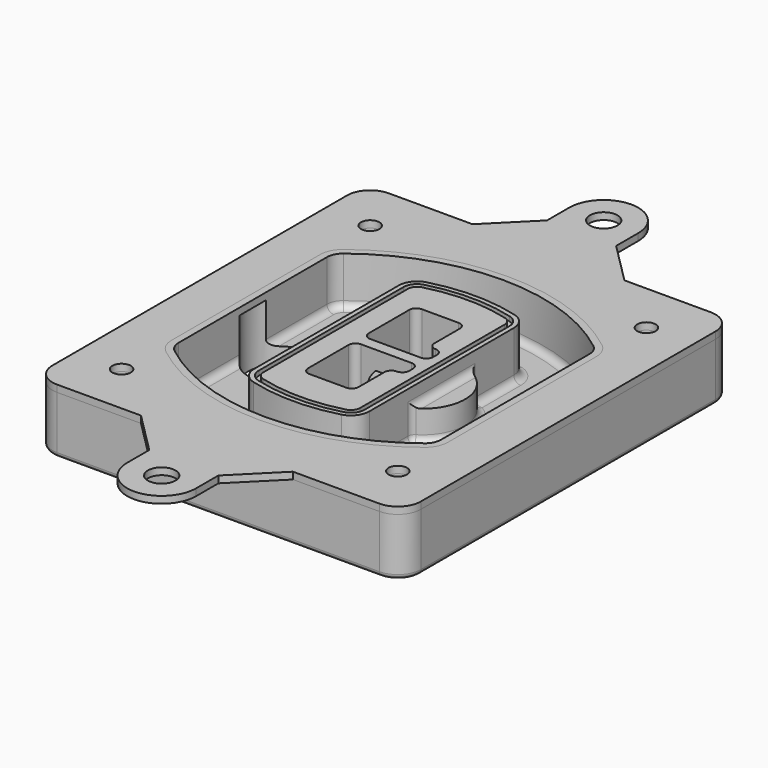
from build123d import *

# Parameters (mm, degrees)
F0_R      = 4
F1_DEPTH  = 25
F2_DEPTH  = 3
F3_DEPTH  = 18
F5_DEPTH  = 21
F6_DEPTH  = 2
F8_DEPTH  = 20
F9_DEPTH  = 16
F10_DEPTH = 25
F7_R      = 6
F7_R_2    = 4
F11_DEPTH = 6
F13_DEPTH = 9
F14_R     = 3
F15_R     = 2
F16_R     = 6
F16_R_2   = 4
F17_DEPTH = 3


with BuildPart() as f1:
    # F0 (on Top) → F1 (new body)
    with BuildSketch(Plane.XY):
        with BuildLine():
            ThreePointArc((-80, -80), (-77.0710678119, -87.0710678119), (-70, -90))
            Line((-70, -90), (70, -90))
            ThreePointArc((70, -90), (77.0710678119, -87.0710678119), (80, -80))
            Line((80, -80), (80, 80))
            ThreePointArc((80, 80), (77.0710678119, 87.0710678119), (70, 90))
            Line((70, 90), (-70, 90))
            ThreePointArc((-70, 90), (-77.0710678119, 87.0710678119), (-80, 80))
            Line((-80, 80), (-80, -80))
        make_face()
        with Locations((-60, -67.5)):
            Circle(F0_R, mode=Mode.SUBTRACT)
        with Locations((60, -67.5)):
            Circle(F0_R, mode=Mode.SUBTRACT)
        with Locations((-60, 67.5)):
            Circle(F0_R, mode=Mode.SUBTRACT)
        with BuildLine():
            ThreePointArc((-64, 40.2934422872), (-62.5820384798, 46.4328484224), (-58.6153846154, 51.3286200352))
            ThreePointArc((-58.6153846154, 51.3286200352), (0, 71.5), (58.6153846154, 51.3286200352))
            ThreePointArc((58.6153846154, 51.3286200352), (62.5820384798, 46.4328484224), (64, 40.2934422872))
            Line((64, 40.2934422872), (64, -40.2934422872))
            ThreePointArc((64, -40.2934422872), (62.5820384798, -46.4328484224), (58.6153846154, -51.3286200352))
            ThreePointArc((58.6153846154, -51.3286200352), (0, -71.5), (-58.6153846154, -51.3286200352))
            ThreePointArc((-58.6153846154, -51.3286200352), (-62.5820384798, -46.4328484224), (-64, -40.2934422872))
            Line((-64, -40.2934422872), (-64, 40.2934422872))
        make_face(mode=Mode.SUBTRACT)
        with Locations((60, 67.5)):
            Circle(F0_R, mode=Mode.SUBTRACT)
        with BuildLine():
            ThreePointArc((58.6153846154, 51.3286200352), (0, 71.5), (-58.6153846154, 51.3286200352))
            ThreePointArc((-58.6153846154, 51.3286200352), (-62.5820384798, 46.4328484224), (-64, 40.2934422872))
            Line((-64, 40.2934422872), (-64, -40.2934422872))
            ThreePointArc((-64, -40.2934422872), (-62.5820384798, -46.4328484224), (-58.6153846154, -51.3286200352))
            ThreePointArc((-58.6153846154, -51.3286200352), (0, -71.5), (58.6153846154, -51.3286200352))
            ThreePointArc((58.6153846154, -51.3286200352), (62.5820384798, -46.4328484224), (64, -40.2934422872))
            Line((64, -40.2934422872), (64, 40.2934422872))
            ThreePointArc((64, 40.2934422872), (62.5820384798, 46.4328484224), (58.6153846154, 51.3286200352))
        make_face()
        with BuildLine():
            Line((-60, -40.2934422872), (-60, 40.2934422872))
            ThreePointArc((-60, 40.2934422872), (-58.9871703427, 44.6787323838), (-56.1538461538, 48.1757121072))
            ThreePointArc((-56.1538461538, 48.1757121072), (0, 67.5), (56.1538461538, 48.1757121072))
            ThreePointArc((56.1538461538, 48.1757121072), (58.9871703427, 44.6787323838), (60, 40.2934422872))
            Line((60, 40.2934422872), (60, -40.2934422872))
            ThreePointArc((60, -40.2934422872), (58.9871703427, -44.6787323838), (56.1538461538, -48.1757121072))
            ThreePointArc((56.1538461538, -48.1757121072), (0, -67.5), (-56.1538461538, -48.1757121072))
            ThreePointArc((-56.1538461538, -48.1757121072), (-58.9871703427, -44.6787323838), (-60, -40.2934422872))
        make_face(mode=Mode.SUBTRACT)
        with BuildLine():
            ThreePointArc((-56.1538461538, 48.1757121072), (-58.9871703427, 44.6787323838), (-60, 40.2934422872))
            Line((-60, 40.2934422872), (-60, -40.2934422872))
            ThreePointArc((-60, -40.2934422872), (-58.9871703427, -44.6787323838), (-56.1538461538, -48.1757121072))
            ThreePointArc((-56.1538461538, -48.1757121072), (0, -67.5), (56.1538461538, -48.1757121072))
            ThreePointArc((56.1538461538, -48.1757121072), (58.9871703427, -44.6787323838), (60, -40.2934422872))
            Line((60, -40.2934422872), (60, 40.2934422872))
            ThreePointArc((60, 40.2934422872), (58.9871703427, 44.6787323838), (56.1538461538, 48.1757121072))
            ThreePointArc((56.1538461538, 48.1757121072), (0, 67.5), (-56.1538461538, 48.1757121072))
        make_face()
        with BuildLine():
            ThreePointArc((54.3076923077, 45.8110311612), (56.2910192399, 43.3631453548), (57, 40.2934422872))
            Line((57, 40.2934422872), (57, -40.2934422872))
            ThreePointArc((57, -40.2934422872), (56.2910192399, -43.3631453548), (54.3076923077, -45.8110311612))
            ThreePointArc((54.3076923077, -45.8110311612), (0, -64.5), (-54.3076923077, -45.8110311612))
            ThreePointArc((-54.3076923077, -45.8110311612), (-56.2910192399, -43.3631453548), (-57, -40.2934422872))
            Line((-57, -40.2934422872), (-57, 40.2934422872))
            ThreePointArc((-57, 40.2934422872), (-56.2910192399, 43.3631453548), (-54.3076923077, 45.8110311612))
            ThreePointArc((-54.3076923077, 45.8110311612), (0, 64.5), (54.3076923077, 45.8110311612))
        make_face(mode=Mode.SUBTRACT)
        with BuildLine():
            Line((57, -40.2934422872), (57, 40.2934422872))
            ThreePointArc((57, 40.2934422872), (56.2910192399, 43.3631453548), (54.3076923077, 45.8110311612))
            ThreePointArc((54.3076923077, 45.8110311612), (0, 64.5), (-54.3076923077, 45.8110311612))
            ThreePointArc((-54.3076923077, 45.8110311612), (-56.2910192399, 43.3631453548), (-57, 40.2934422872))
            Line((-57, 40.2934422872), (-57, -40.2934422872))
            ThreePointArc((-57, -40.2934422872), (-56.2910192399, -43.3631453548), (-54.3076923077, -45.8110311612))
            ThreePointArc((-54.3076923077, -45.8110311612), (0, -64.5), (54.3076923077, -45.8110311612))
            ThreePointArc((54.3076923077, -45.8110311612), (56.2910192399, -43.3631453548), (57, -40.2934422872))
        make_face()
    extrude(amount=-F1_DEPTH)

    # F0 (on Top) → F2 (join)
    with BuildSketch(Plane.XY):
        with BuildLine():
            ThreePointArc((-56.1538461538, 48.1757121072), (-58.9871703427, 44.6787323838), (-60, 40.2934422872))
            Line((-60, 40.2934422872), (-60, -40.2934422872))
            ThreePointArc((-60, -40.2934422872), (-58.9871703427, -44.6787323838), (-56.1538461538, -48.1757121072))
            ThreePointArc((-56.1538461538, -48.1757121072), (0, -67.5), (56.1538461538, -48.1757121072))
            ThreePointArc((56.1538461538, -48.1757121072), (58.9871703427, -44.6787323838), (60, -40.2934422872))
            Line((60, -40.2934422872), (60, 40.2934422872))
            ThreePointArc((60, 40.2934422872), (58.9871703427, 44.6787323838), (56.1538461538, 48.1757121072))
            ThreePointArc((56.1538461538, 48.1757121072), (0, 67.5), (-56.1538461538, 48.1757121072))
        make_face()
        with BuildLine():
            ThreePointArc((54.3076923077, 45.8110311612), (56.2910192399, 43.3631453548), (57, 40.2934422872))
            Line((57, 40.2934422872), (57, -40.2934422872))
            ThreePointArc((57, -40.2934422872), (56.2910192399, -43.3631453548), (54.3076923077, -45.8110311612))
            ThreePointArc((54.3076923077, -45.8110311612), (0, -64.5), (-54.3076923077, -45.8110311612))
            ThreePointArc((-54.3076923077, -45.8110311612), (-56.2910192399, -43.3631453548), (-57, -40.2934422872))
            Line((-57, -40.2934422872), (-57, 40.2934422872))
            ThreePointArc((-57, 40.2934422872), (-56.2910192399, 43.3631453548), (-54.3076923077, 45.8110311612))
            ThreePointArc((-54.3076923077, 45.8110311612), (0, 64.5), (54.3076923077, 45.8110311612))
        make_face(mode=Mode.SUBTRACT)
    extrude(amount=F2_DEPTH)

    # F0 (on Top) → F3 (cut)
    with BuildSketch(Plane.XY):
        with BuildLine():
            Line((57, -40.2934422872), (57, 40.2934422872))
            ThreePointArc((57, 40.2934422872), (56.2910192399, 43.3631453548), (54.3076923077, 45.8110311612))
            ThreePointArc((54.3076923077, 45.8110311612), (0, 64.5), (-54.3076923077, 45.8110311612))
            ThreePointArc((-54.3076923077, 45.8110311612), (-56.2910192399, 43.3631453548), (-57, 40.2934422872))
            Line((-57, 40.2934422872), (-57, -40.2934422872))
            ThreePointArc((-57, -40.2934422872), (-56.2910192399, -43.3631453548), (-54.3076923077, -45.8110311612))
            ThreePointArc((-54.3076923077, -45.8110311612), (0, -64.5), (54.3076923077, -45.8110311612))
            ThreePointArc((54.3076923077, -45.8110311612), (56.2910192399, -43.3631453548), (57, -40.2934422872))
        make_face()
    extrude(amount=-F3_DEPTH, mode=Mode.SUBTRACT)

    # F4 (on face) → F5 (join, through all)
    with BuildSketch(Plane.XY.offset(3)):
        with BuildLine():
            ThreePointArc((-25, -39.2465276821), (-23.3511545998, -44.1109737193), (-19.0842911877, -46.9702398883))
            ThreePointArc((-19.0842911877, -46.9702398883), (0, -49.5), (19.0842911877, -46.9702398883))
            ThreePointArc((19.0842911877, -46.9702398883), (23.3511545998, -44.1109737193), (25, -39.2465276821))
            Line((25, -39.2465276821), (25, 39.2465276821))
            ThreePointArc((25, 39.2465276821), (23.3511545998, 44.1109737193), (19.0842911877, 46.9702398883))
            ThreePointArc((19.0842911877, 46.9702398883), (0, 49.5), (-19.0842911877, 46.9702398883))
            ThreePointArc((-19.0842911877, 46.9702398883), (-23.3511545998, 44.1109737193), (-25, 39.2465276821))
            Line((-25, 39.2465276821), (-25, -39.2465276821))
        make_face()
        with BuildLine():
            ThreePointArc((18.5632183908, 45.0393118368), (21.7633659499, 42.89486221), (23, 39.2465276821))
            Line((23, 39.2465276821), (23, -39.2465276821))
            ThreePointArc((23, -39.2465276821), (21.7633659499, -42.89486221), (18.5632183908, -45.0393118368))
            ThreePointArc((18.5632183908, -45.0393118368), (0, -47.5), (-18.5632183908, -45.0393118368))
            ThreePointArc((-18.5632183908, -45.0393118368), (-21.7633659499, -42.89486221), (-23, -39.2465276821))
            Line((-23, -39.2465276821), (-23, 39.2465276821))
            ThreePointArc((-23, 39.2465276821), (-21.7633659499, 42.89486221), (-18.5632183908, 45.0393118368))
            ThreePointArc((-18.5632183908, 45.0393118368), (0, 47.5), (18.5632183908, 45.0393118368))
        make_face(mode=Mode.SUBTRACT)
        with BuildLine():
            Line((23, -39.2465276821), (23, 39.2465276821))
            ThreePointArc((23, 39.2465276821), (21.7633659499, 42.89486221), (18.5632183908, 45.0393118368))
            ThreePointArc((18.5632183908, 45.0393118368), (0, 47.5), (-18.5632183908, 45.0393118368))
            ThreePointArc((-18.5632183908, 45.0393118368), (-21.7633659499, 42.89486221), (-23, 39.2465276821))
            Line((-23, 39.2465276821), (-23, -39.2465276821))
            ThreePointArc((-23, -39.2465276821), (-21.7633659499, -42.89486221), (-18.5632183908, -45.0393118368))
            ThreePointArc((-18.5632183908, -45.0393118368), (0, -47.5), (18.5632183908, -45.0393118368))
            ThreePointArc((18.5632183908, -45.0393118368), (21.7633659499, -42.89486221), (23, -39.2465276821))
        make_face()
        with BuildLine():
            ThreePointArc((18.0421455939, 43.1083837852), (20.1755772999, 41.6787507007), (21, 39.2465276821))
            Line((21, 39.2465276821), (21, -39.2465276821))
            ThreePointArc((21, -39.2465276821), (20.1755772999, -41.6787507007), (18.0421455939, -43.1083837852))
            ThreePointArc((18.0421455939, -43.1083837852), (0, -45.5), (-18.0421455939, -43.1083837852))
            ThreePointArc((-18.0421455939, -43.1083837852), (-20.1755772999, -41.6787507007), (-21, -39.2465276821))
            Line((-21, -39.2465276821), (-21, 39.2465276821))
            ThreePointArc((-21, 39.2465276821), (-20.1755772999, 41.6787507007), (-18.0421455939, 43.1083837852))
            ThreePointArc((-18.0421455939, 43.1083837852), (0, 45.5), (18.0421455939, 43.1083837852))
        make_face(mode=Mode.SUBTRACT)
        with BuildLine():
            Line((21, -39.2465276821), (21, 39.2465276821))
            ThreePointArc((21, 39.2465276821), (20.1755772999, 41.6787507007), (18.0421455939, 43.1083837852))
            ThreePointArc((18.0421455939, 43.1083837852), (0, 45.5), (-18.0421455939, 43.1083837852))
            ThreePointArc((-18.0421455939, 43.1083837852), (-20.1755772999, 41.6787507007), (-21, 39.2465276821))
            Line((-21, 39.2465276821), (-21, -39.2465276821))
            ThreePointArc((-21, -39.2465276821), (-20.1755772999, -41.6787507007), (-18.0421455939, -43.1083837852))
            ThreePointArc((-18.0421455939, -43.1083837852), (0, -45.5), (18.0421455939, -43.1083837852))
            ThreePointArc((18.0421455939, -43.1083837852), (20.1755772999, -41.6787507007), (21, -39.2465276821))
        make_face()
        with BuildLine():
            Line((-8, -2.5), (14, -2.5))
            ThreePointArc((14, -2.5), (16.1213203436, -3.3786796564), (17, -5.5))
            Line((17, -5.5), (17, -7.5))
            ThreePointArc((17, -7.5), (16.1213203436, -9.6213203436), (14, -10.5))
            ThreePointArc((14, -10.5), (11.8786796564, -11.3786796564), (11, -13.5))
            Line((11, -13.5), (11, -27.5))
            ThreePointArc((11, -27.5), (10.1213203436, -29.6213203436), (8, -30.5))
            Line((8, -30.5), (-8, -30.5))
            ThreePointArc((-8, -30.5), (-10.1213203436, -29.6213203436), (-11, -27.5))
            Line((-11, -27.5), (-11, -5.5))
            ThreePointArc((-11, -5.5), (-10.1213203436, -3.3786796564), (-8, -2.5))
        make_face(mode=Mode.SUBTRACT)
        with BuildLine():
            ThreePointArc((-8, 2.5), (-10.1213203436, 3.3786796564), (-11, 5.5))
            Line((-11, 5.5), (-11, 27.5))
            ThreePointArc((-11, 27.5), (-10.1213203436, 29.6213203436), (-8, 30.5))
            Line((-8, 30.5), (8, 30.5))
            ThreePointArc((8, 30.5), (10.1213203436, 29.6213203436), (11, 27.5))
            Line((11, 27.5), (11, 13.5))
            ThreePointArc((11, 13.5), (11.8786796564, 11.3786796564), (14, 10.5))
            ThreePointArc((14, 10.5), (16.1213203436, 9.6213203436), (17, 7.5))
            Line((17, 7.5), (17, 5.5))
            ThreePointArc((17, 5.5), (16.1213203436, 3.3786796564), (14, 2.5))
            Line((14, 2.5), (-8, 2.5))
        make_face(mode=Mode.SUBTRACT)
    extrude(amount=-F5_DEPTH)

    # F4 (on face) → F6 (cut)
    with BuildSketch(Plane.XY.offset(3)):
        with BuildLine():
            Line((23, -39.2465276821), (23, 39.2465276821))
            ThreePointArc((23, 39.2465276821), (21.7633659499, 42.89486221), (18.5632183908, 45.0393118368))
            ThreePointArc((18.5632183908, 45.0393118368), (0, 47.5), (-18.5632183908, 45.0393118368))
            ThreePointArc((-18.5632183908, 45.0393118368), (-21.7633659499, 42.89486221), (-23, 39.2465276821))
            Line((-23, 39.2465276821), (-23, -39.2465276821))
            ThreePointArc((-23, -39.2465276821), (-21.7633659499, -42.89486221), (-18.5632183908, -45.0393118368))
            ThreePointArc((-18.5632183908, -45.0393118368), (0, -47.5), (18.5632183908, -45.0393118368))
            ThreePointArc((18.5632183908, -45.0393118368), (21.7633659499, -42.89486221), (23, -39.2465276821))
        make_face()
        with BuildLine():
            ThreePointArc((18.0421455939, 43.1083837852), (20.1755772999, 41.6787507007), (21, 39.2465276821))
            Line((21, 39.2465276821), (21, -39.2465276821))
            ThreePointArc((21, -39.2465276821), (20.1755772999, -41.6787507007), (18.0421455939, -43.1083837852))
            ThreePointArc((18.0421455939, -43.1083837852), (0, -45.5), (-18.0421455939, -43.1083837852))
            ThreePointArc((-18.0421455939, -43.1083837852), (-20.1755772999, -41.6787507007), (-21, -39.2465276821))
            Line((-21, -39.2465276821), (-21, 39.2465276821))
            ThreePointArc((-21, 39.2465276821), (-20.1755772999, 41.6787507007), (-18.0421455939, 43.1083837852))
            ThreePointArc((-18.0421455939, 43.1083837852), (0, 45.5), (18.0421455939, 43.1083837852))
        make_face(mode=Mode.SUBTRACT)
    extrude(amount=-F6_DEPTH, mode=Mode.SUBTRACT)

    # F7 (on face) → F8 (join)
    with BuildSketch(Plane(origin=(0, 0, -25), x_dir=(1, 0, 0), z_dir=(0, 0, -1))):
        with BuildLine():
            ThreePointArc((3.28842436, 0), (16.7567035675, 13.4682792075), (30.224982775, 0))
            Line((30.224982775, 0), (35.224982775, 0))
            ThreePointArc((35.224982775, 0), (16.7567035675, 18.4682792075), (-1.71157564, 0))
            Line((-1.71157564, 0), (3.28842436, 0))
        make_face()
        with BuildLine():
            Line((3.28842436, 0), (30.224982775, 0))
            ThreePointArc((30.224982775, 0), (16.7567035675, 13.4682792075), (3.28842436, 0))
        make_face()
        with BuildLine():
            ThreePointArc((3.28842436, 0), (16.7567035675, -13.4682792075), (30.224982775, 0))
            Line((30.224982775, 0), (3.28842436, 0))
        make_face()
        with BuildLine():
            Line((35.224982775, 0), (30.224982775, 0))
            ThreePointArc((30.224982775, 0), (16.7567035675, -13.4682792075), (3.28842436, 0))
            Line((3.28842436, 0), (-1.71157564, 0))
            ThreePointArc((-1.71157564, 0), (16.7567035675, -18.4682792075), (35.224982775, 0))
        make_face()
    extrude(amount=-F8_DEPTH)

    # F7 (on face) → F9 (cut)
    with BuildSketch(Plane(origin=(0, 0, -25), x_dir=(1, 0, 0), z_dir=(0, 0, -1))):
        with BuildLine():
            Line((3.28842436, 0), (30.224982775, 0))
            ThreePointArc((30.224982775, 0), (16.7567035675, 13.4682792075), (3.28842436, 0))
        make_face()
        with BuildLine():
            ThreePointArc((3.28842436, 0), (16.7567035675, -13.4682792075), (30.224982775, 0))
            Line((30.224982775, 0), (3.28842436, 0))
        make_face()
    extrude(amount=-F9_DEPTH, mode=Mode.SUBTRACT)

    # F7 (on face) → F10 (cut)
    with BuildSketch(Plane(origin=(0, 0, -25), x_dir=(1, 0, 0), z_dir=(0, 0, -1))):
        with BuildLine():
            Line((-59.0318229325, 0), (-32.0952645175, 0))
            ThreePointArc((-32.0952645175, 0), (-45.563543725, 13.4682792075), (-59.0318229325, 0))
        make_face()
        with BuildLine():
            ThreePointArc((-59.0318229325, 0), (-45.563543725, -13.4682792075), (-32.0952645175, 0))
            Line((-32.0952645175, 0), (-59.0318229325, 0))
        make_face()
    extrude(amount=-F10_DEPTH, mode=Mode.SUBTRACT)

    # F7 (on face) → F11 (cut)
    with BuildSketch(Plane(origin=(0, 0, -25), x_dir=(1, 0, 0), z_dir=(0, 0, -1))):
        with Locations((60, -67.5)):
            Circle(F7_R)
        with Locations((60, -67.5)):
            Circle(F7_R_2, mode=Mode.SUBTRACT)
        with Locations((60, -67.5)):
            Circle(F7_R)
        with Locations((60, -67.5)):
            Circle(F7_R_2, mode=Mode.SUBTRACT)
        with Locations((-60, -67.5)):
            Circle(F7_R)
        with Locations((-60, -67.5)):
            Circle(F7_R_2, mode=Mode.SUBTRACT)
        with Locations((-60, -67.5)):
            Circle(F7_R)
        with Locations((-60, -67.5)):
            Circle(F7_R_2, mode=Mode.SUBTRACT)
        with Locations((-60, 67.5)):
            Circle(F7_R)
        with Locations((-60, 67.5)):
            Circle(F7_R_2, mode=Mode.SUBTRACT)
        with Locations((-60, 67.5)):
            Circle(F7_R)
        with Locations((-60, 67.5)):
            Circle(F7_R_2, mode=Mode.SUBTRACT)
        with Locations((60, 67.5)):
            Circle(F7_R)
        with Locations((60, 67.5)):
            Circle(F7_R_2, mode=Mode.SUBTRACT)
        with Locations((60, 67.5)):
            Circle(F7_R)
        with Locations((60, 67.5)):
            Circle(F7_R_2, mode=Mode.SUBTRACT)
    extrude(amount=-F11_DEPTH, mode=Mode.SUBTRACT)

    # F12 (on face) → F13 (cut, through all)
    with BuildSketch(Plane(origin=(0, 0, -9), x_dir=(1, 0, 0), z_dir=(0, 0, -1))):
        with BuildLine():
            Line((11, 13.5), (11, 17.5481537753))
            ThreePointArc((11, 17.5481537753), (2.5696536419, 11.8239143813), (-1.5415842455, 2.5))
            Line((-1.5415842455, 2.5), (3.5224848595, 2.5))
            ThreePointArc((3.5224848595, 2.5), (6.1857188154, 8.3455872281), (11.2536447004, 12.2927168648))
            ThreePointArc((11.2536447004, 12.2927168648), (11.0640958889, 12.8831798879), (11, 13.5))
        make_face()
        with BuildLine():
            ThreePointArc((11.2536447004, -12.2927168648), (6.1857188154, -8.3455872281), (3.5224848595, -2.5))
            Line((3.5224848595, -2.5), (-1.5415842455, -2.5))
            ThreePointArc((-1.5415842455, -2.5), (2.5696536419, -11.8239143813), (11, -17.5481537753))
            Line((11, -17.5481537753), (11, -13.5))
            ThreePointArc((11, -13.5), (11.0640958889, -12.8831798879), (11.2536447004, -12.2927168648))
        make_face()
        with BuildLine():
            ThreePointArc((11.2536447004, 12.2927168648), (6.1857188154, 8.3455872281), (3.5224848595, 2.5))
            Line((3.5224848595, 2.5), (14, 2.5))
            ThreePointArc((14, 2.5), (16.1213203436, 3.3786796564), (17, 5.5))
            Line((17, 5.5), (17, 7.5))
            ThreePointArc((17, 7.5), (16.1213203436, 9.6213203436), (14, 10.5))
            ThreePointArc((14, 10.5), (12.3601599782, 10.9878446101), (11.2536447004, 12.2927168648))
        make_face()
        with BuildLine():
            Line((14, -2.5), (3.5224848595, -2.5))
            ThreePointArc((3.5224848595, -2.5), (6.1857188154, -8.3455872281), (11.2536447004, -12.2927168648))
            ThreePointArc((11.2536447004, -12.2927168648), (12.3601599782, -10.9878446101), (14, -10.5))
            ThreePointArc((14, -10.5), (16.1213203436, -9.6213203436), (17, -7.5))
            Line((17, -7.5), (17, -5.5))
            ThreePointArc((17, -5.5), (16.1213203436, -3.3786796564), (14, -2.5))
        make_face()
    extrude(amount=F13_DEPTH, mode=Mode.SUBTRACT)

    # F14
    f14_edges = [f1.edges().sort_by_distance(p)[0] for p in [
        (-57, -23.703476, -18),
        (-57, 23.703476, -18),
        (25, 0, -5),
        (25, 16.526506, -11.5),
        (25, -16.526506, -11.5),
        (25, -27.886517, -18),
        (35.224983, 0, -18),
    ]]
    fillet(f14_edges, radius=F14_R)

    # F15
    f15_edges = [f1.edges().sort_by_distance(p)[0] for p in [
        (0, -90, -25),
    ]]
    fillet(f15_edges, radius=F15_R)


with BuildPart() as f17:
    # F16 (on face) → F17 (new body, through all)
    with BuildSketch(Plane.XY):
        with BuildLine():
            Line((-15.563627705, 108), (-33.563627705, 90))
            Line((-33.563627705, 90), (32.436372295, 90))
            Line((32.436372295, 90), (14.436372295, 108))
            Line((14.436372295, 108), (14.436372295, 120))
            ThreePointArc((14.436372295, 120), (-0.563627705, 135), (-15.563627705, 120))
            Line((-15.563627705, 120), (-15.563627705, 108))
        make_face()
        with Locations((-0.563627705, 120)):
            Circle(F16_R, mode=Mode.SUBTRACT)
        with BuildLine():
            Line((-15.563627705, -108), (-15.563627705, -120))
            ThreePointArc((-15.563627705, -120), (-0.563627705, -135), (14.436372295, -120))
            Line((14.436372295, -120), (14.436372295, -108))
            Line((14.436372295, -108), (32.436372295, -90))
            Line((32.436372295, -90), (-33.563627705, -90))
            Line((-33.563627705, -90), (-15.563627705, -108))
        make_face()
        with Locations((-0.563627705, -120)):
            Circle(F16_R, mode=Mode.SUBTRACT)
        with BuildLine():
            Line((-33.563627705, 90), (-38.7280955911, 90))
            Line((-38.7280955911, 90), (-70, 90))
            ThreePointArc((-70, 90), (-77.0710678119, 87.0710678119), (-80, 80))
            Line((-80, 80), (-80, -80))
            ThreePointArc((-80, -80), (-77.0710678119, -87.0710678119), (-70, -90))
            Line((-70, -90), (-33.563627705, -90))
            Line((-33.563627705, -90), (32.436372295, -90))
            Line((32.436372295, -90), (70, -90))
            ThreePointArc((70, -90), (77.0710678119, -87.0710678119), (80, -80))
            Line((80, -80), (80, 80))
            ThreePointArc((80, 80), (77.0710678119, 87.0710678119), (70, 90))
            Line((70, 90), (51.8106316524, 90))
            Line((51.8106316524, 90), (32.436372295, 90))
            Line((32.436372295, 90), (-33.563627705, 90))
        make_face()
        with Locations((-60, -67.5)):
            Circle(F16_R_2, mode=Mode.SUBTRACT)
        with Locations((60, -67.5)):
            Circle(F16_R_2, mode=Mode.SUBTRACT)
        with Locations((-60, 67.5)):
            Circle(F16_R_2, mode=Mode.SUBTRACT)
        with BuildLine():
            ThreePointArc((-60, 40.2934422872), (-58.9871703427, 44.6787323838), (-56.1538461538, 48.1757121072))
            ThreePointArc((-56.1538461538, 48.1757121072), (0, 67.5), (56.1538461538, 48.1757121072))
            ThreePointArc((56.1538461538, 48.1757121072), (58.9871703427, 44.6787323838), (60, 40.2934422872))
            Line((60, 40.2934422872), (60, -40.2934422872))
            ThreePointArc((60, -40.2934422872), (58.9871703427, -44.6787323838), (56.1538461538, -48.1757121072))
            ThreePointArc((56.1538461538, -48.1757121072), (0, -67.5), (-56.1538461538, -48.1757121072))
            ThreePointArc((-56.1538461538, -48.1757121072), (-58.9871703427, -44.6787323838), (-60, -40.2934422872))
            Line((-60, -40.2934422872), (-60, 40.2934422872))
        make_face(mode=Mode.SUBTRACT)
        with Locations((60, 67.5)):
            Circle(F16_R_2, mode=Mode.SUBTRACT)
    extrude(amount=F17_DEPTH)


solid = Compound([f1.part, f17.part])
